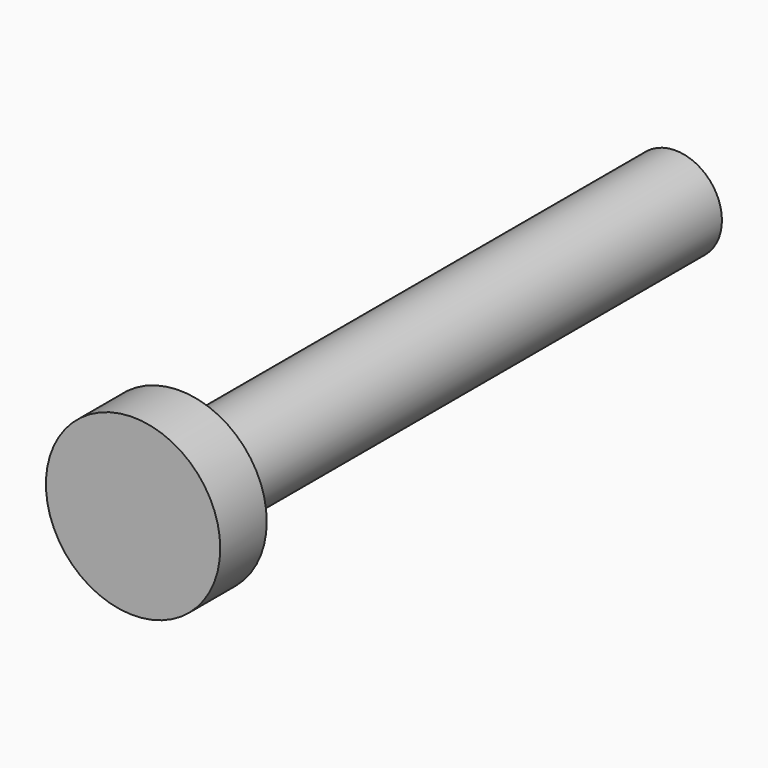
from build123d import *

# Parameters (mm, degrees)
F0_R     = 2.4
F1_DEPTH = 32
F2_R     = 4.5
F2_R_2   = 2.4
F3_DEPTH = 3


with BuildPart() as f1:
    # F0 (on Front) → F1 (new body)
    with BuildSketch(Plane.XZ):
        Circle(F0_R)
    extrude(amount=F1_DEPTH)

    # F2 (on face) → F3 (join)
    with BuildSketch(Plane.XZ.offset(32)):
        Circle(F2_R)
        Circle(F2_R_2, mode=Mode.SUBTRACT)
        Circle(F2_R_2)
    extrude(amount=F3_DEPTH)


solid = f1.part
